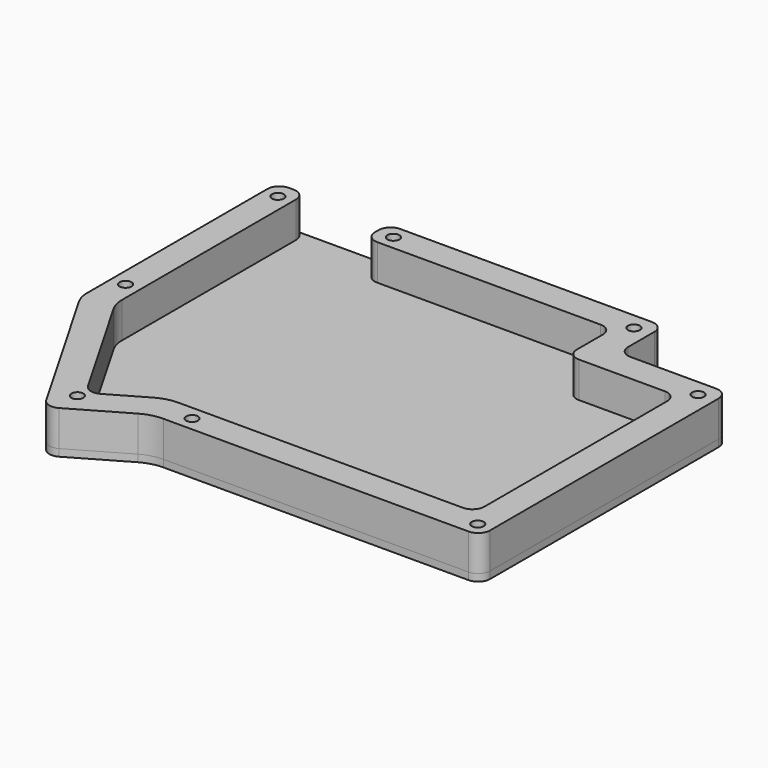
from build123d import *

# Parameters (mm, degrees)
MIRROREDSKETCH_R    = 2.5
EXTRUDE_DEPTH       = 3
MIRROREDSKETCH001_R = 2.5
EXTRUDE001_DEPTH    = 15


with BuildPart() as extrude_body:
    # MirroredSketch → Extrude (new body)
    with BuildSketch(Plane.XY):
        with BuildLine():
            Line((127.32, 60.005), (127.32, -60.005))
            ThreePointArc((122.32, -65.005), (125.855534, -63.540534), (127.32, -60.005))
            Line((122.32, -65.005), (-5.910023, -65.005))
            ThreePointArc((-5.910023, -65.005), (-10.498885, -65.609135), (-14.775023, -67.38037))
            Line((-14.775023, -67.38037), (-37.422033, -80.455627))
            ThreePointArc((-44.254779, -78.620958), (-41.21866, -80.95445), (-37.422033, -80.455627))
            Line((-44.254779, -78.620958), (-79.54514, -17.347965))
            ThreePointArc((-81.28, -10.859775), (-80.838798, -14.217838), (-79.54514, -17.347965))
            Line((-81.28, -10.859775), (-81.28, 83.815))
            ThreePointArc((-76.28, 88.815), (-79.815534, 87.350534), (-81.28, 83.815))
            Line((-76.28, 88.815), (76.28, 88.815))
            ThreePointArc((81.28, 83.815), (79.815534, 87.350534), (76.28, 88.815))
            Line((81.28, 83.815), (81.28, 70.005))
            ThreePointArc((81.28, 70.005), (82.744466, 66.469466), (86.28, 65.005))
            Line((86.28, 65.005), (122.32, 65.005))
            ThreePointArc((127.32, 60.005), (125.855534, 63.540534), (122.32, 65.005))
        make_face()
        with Locations((120.32, 58.005)):
            Circle(MIRROREDSKETCH_R, mode=Mode.SUBTRACT)
        with Locations((121.32, -59.005)):
            Circle(MIRROREDSKETCH_R, mode=Mode.SUBTRACT)
        with Locations((1.32, -59.005)):
            Circle(MIRROREDSKETCH_R, mode=Mode.SUBTRACT)
        with Locations((-38.194107, -69.844124)):
            Circle(MIRROREDSKETCH_R, mode=Mode.SUBTRACT)
        with Locations((-75.28, 1.815)):
            Circle(MIRROREDSKETCH_R, mode=Mode.SUBTRACT)
        with Locations((-75.28, 81.815)):
            Circle(MIRROREDSKETCH_R, mode=Mode.SUBTRACT)
        with Locations((-27.53, 82.815)):
            Circle(MIRROREDSKETCH_R, mode=Mode.SUBTRACT)
        with Locations((74.28, 81.815)):
            Circle(MIRROREDSKETCH_R, mode=Mode.SUBTRACT)
    extrude(amount=EXTRUDE_DEPTH)


with BuildPart() as extrude001:
    # MirroredSketch001 → Extrude001 (new body)
    with BuildSketch(Plane.XY.offset(3)):
        with BuildLine():
            Line((-69.28, 71.815), (-69.28, -7.651127))
            ThreePointArc((-69.28, -7.651127), (-68.838798, -11.00919), (-67.54514, -14.139318))
            Line((-67.54514, -14.139318), (-39.851571, -62.222358))
            ThreePointArc((-39.851571, -62.222358), (-36.815452, -64.55585), (-33.018825, -64.057027))
            Line((-17.990413, -55.38037), (-33.018825, -64.057027))
            ThreePointArc((-9.125413, -53.005), (-13.714275, -53.609135), (-17.990413, -55.38037))
            Line((110.32, -53.005), (-9.125413, -53.005))
            ThreePointArc((110.32, -53.005), (113.855534, -51.540534), (115.32, -48.005))
            Line((115.32, 48.005), (115.32, -48.005))
            ThreePointArc((115.32, 48.005), (113.855534, 51.540534), (110.32, 53.005))
            Line((110.32, 53.005), (74.28, 53.005))
            ThreePointArc((69.28, 58.005), (70.744466, 54.469466), (74.28, 53.005))
            Line((69.28, 71.815), (69.28, 58.005))
            ThreePointArc((69.28, 71.815), (67.815534, 75.350534), (64.28, 76.815))
            Line((64.28, 76.815), (-29.53, 76.815))
            ThreePointArc((-34.53, 81.815), (-33.065534, 78.279466), (-29.53, 76.815))
            Line((-34.53, 81.815), (-34.53, 83.815))
            ThreePointArc((-29.53, 88.815), (-33.065534, 87.350534), (-34.53, 83.815))
            Line((-29.53, 88.815), (76.28, 88.815))
            ThreePointArc((81.28, 83.815), (79.815534, 87.350534), (76.28, 88.815))
            Line((81.28, 83.815), (81.28, 70.005))
            ThreePointArc((81.28, 70.005), (82.744466, 66.469466), (86.28, 65.005))
            Line((86.28, 65.005), (122.32, 65.005))
            ThreePointArc((127.32, 60.005), (125.855534, 63.540534), (122.32, 65.005))
            Line((127.32, 60.005), (127.32, -60.005))
            ThreePointArc((122.32, -65.005), (125.855534, -63.540534), (127.32, -60.005))
            Line((122.32, -65.005), (-5.910023, -65.005))
            ThreePointArc((-5.910023, -65.005), (-10.498885, -65.609135), (-14.775023, -67.38037))
            Line((-14.775023, -67.38037), (-37.422033, -80.455627))
            ThreePointArc((-44.254779, -78.620958), (-41.21866, -80.95445), (-37.422033, -80.455627))
            Line((-44.254779, -78.620958), (-79.54514, -17.347965))
            ThreePointArc((-81.28, -10.859775), (-80.838798, -14.217838), (-79.54514, -17.347965))
            Line((-81.28, -10.859775), (-81.28, 83.815))
            ThreePointArc((-76.28, 88.815), (-79.815534, 87.350534), (-81.28, 83.815))
            Line((-76.28, 88.815), (-74.28, 88.815))
            ThreePointArc((-69.28, 83.815), (-70.744466, 87.350534), (-74.28, 88.815))
            Line((-69.28, 71.815), (-69.28, 83.815))
        make_face()
        with Locations((120.32, 58.005)):
            Circle(MIRROREDSKETCH001_R, mode=Mode.SUBTRACT)
        with Locations((121.32, -59.005)):
            Circle(MIRROREDSKETCH001_R, mode=Mode.SUBTRACT)
        with Locations((1.32, -59.005)):
            Circle(MIRROREDSKETCH001_R, mode=Mode.SUBTRACT)
        with Locations((-38.194107, -69.844124)):
            Circle(MIRROREDSKETCH001_R, mode=Mode.SUBTRACT)
        with Locations((-75.28, 1.815)):
            Circle(MIRROREDSKETCH001_R, mode=Mode.SUBTRACT)
        with Locations((-75.28, 81.815)):
            Circle(MIRROREDSKETCH001_R, mode=Mode.SUBTRACT)
        with Locations((-27.53, 82.815)):
            Circle(MIRROREDSKETCH001_R, mode=Mode.SUBTRACT)
        with Locations((74.28, 81.815)):
            Circle(MIRROREDSKETCH001_R, mode=Mode.SUBTRACT)
    extrude(amount=EXTRUDE001_DEPTH)


solid = Compound([extrude_body.part, extrude001.part])
